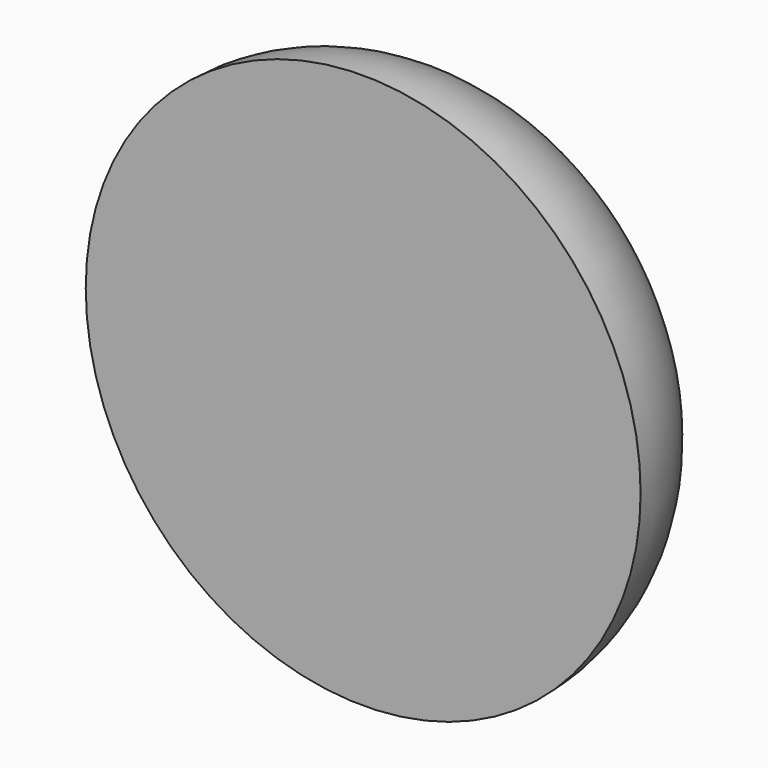
from build123d import *

# Parameters (mm, degrees)
F0_R     = 39.683512
F1_DEPTH = 21.09801
F2_R     = 20.955301
F3_R     = 4.810594
F4_DEPTH = 3.81
F5_R     = 4.782773
F6_DEPTH = 6.43239


with BuildPart() as f1:
    # F0 (on Front) → F1 (new body)
    with BuildSketch(Plane.XZ):
        Circle(F0_R)
    extrude(amount=-F1_DEPTH)

    # F2
    f2_edges = [f1.edges().sort_by_distance(p)[0] for p in [
        (-39.683512, 21.09801, 0),
    ]]
    fillet(f2_edges, radius=F2_R)

    # F3 (on Right) → F4 (join, symmetric)
    with BuildSketch(Plane.YZ):
        with BuildLine():
            ThreePointArc((14.871401, -19.424973), (28.639419, -13.722073), (34.342318, 0.045945))
            ThreePointArc((34.342318, 0.045945), (28.639419, 13.813962), (14.871401, 19.516862))
            Line((14.871401, 19.516862), (14.871401, 0.045945))
            Line((14.871401, 0.045945), (14.871401, -19.424973))
        make_face()
        with Locations((27.04107, 0)):
            Circle(F3_R, mode=Mode.SUBTRACT)
    extrude(amount=F4_DEPTH, both=True)

    # F5 (on Right) → F6 (join, symmetric)
    with BuildSketch(Plane.YZ):
        with Locations((26.935229, 0)):
            Circle(F5_R)
    extrude(amount=F6_DEPTH, both=True)


solid = f1.part
